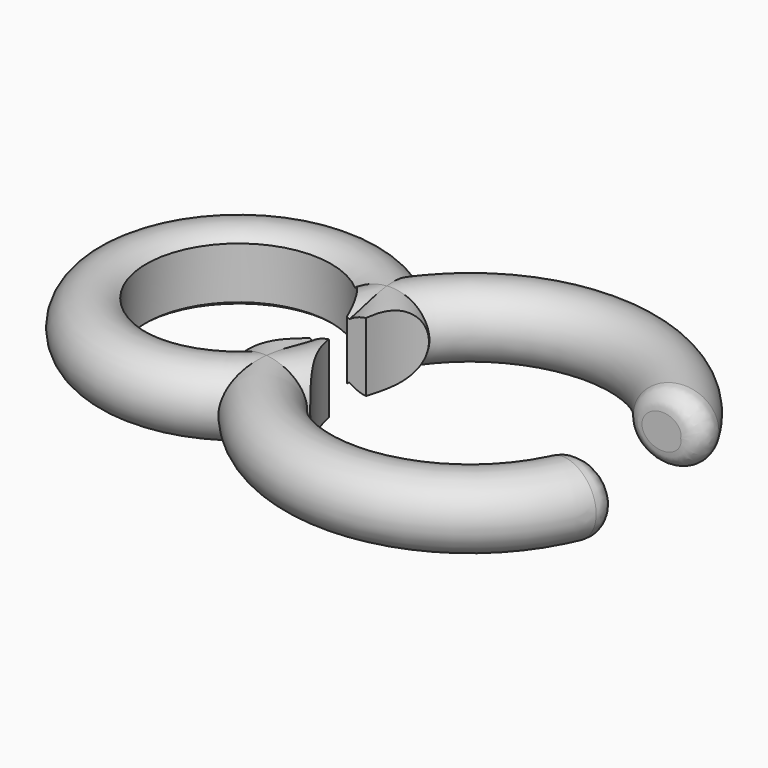
from build123d import *

# Parameters (mm, degrees)
BOX001_W          = 4
BOX001_H          = 2.5
BOX001_DEPTH      = 10
BOX_W             = 3
BOX_H             = 1
BOX_DEPTH         = 5
CYLINDER001_R     = 2.7
CYLINDER001_DEPTH = 10
CYLINDER_R        = 2
CYLINDER_DEPTH    = 10
TORUS_R           = 0.75
TORUS001_R        = 0.75
FILLET_R          = 0.4
FILLET001_R       = 0.4


with BuildPart() as cubo001:
    # Box001 → Box001 (new body)
    with BuildSketch(Plane(origin=(1, -1, -6), x_dir=(1, 0, 0), z_dir=(0, 0, 1))):
        with Locations((2, 1.25)):
            Rectangle(BOX001_W, BOX001_H)
    extrude(amount=BOX001_DEPTH)


with BuildPart() as cubo:
    # Box → Box (new body)
    with BuildSketch(Plane(origin=(-4, -0.5, -3), x_dir=(1, 0, 0), z_dir=(0, 0, 1))):
        with Locations((1.5, 0.5)):
            Rectangle(BOX_W, BOX_H)
    extrude(amount=BOX_DEPTH)


with BuildPart() as cilindro001:
    # Cylinder001 → Cylinder001 (new body)
    with BuildSketch(Plane.XY.offset(-9)):
        Circle(CYLINDER001_R)
    extrude(amount=CYLINDER001_DEPTH)


with BuildPart() as cilindro:
    # Cylinder → Cylinder (new body)
    with BuildSketch(Plane(origin=(-5, 0, -4), x_dir=(1, 0, 0), z_dir=(0, 0, 1))):
        Circle(CYLINDER_R)
    extrude(amount=CYLINDER_DEPTH)


with BuildPart() as toro:
    # Torus → Torus (revolve)
    with BuildSketch(Plane.XZ):
        with Locations((3.5, 0)):
            Circle(TORUS_R)
    revolve(axis=Axis((0, 0, 0), (0, 0, 1)))


with BuildPart() as fillet001:
    # Torus001 → Torus001 (revolve)
    with BuildSketch(Plane(origin=(-5, 0, 0), x_dir=(1, 0, 0), z_dir=(0, -1, 0))):
        with Locations((2.5, 0)):
            Circle(TORUS001_R)
    revolve(axis=Axis((-5, 0, 0), (0, 0, 1)))

    # Fusion: union Toro
    add(toro.part)

    # Cut: cut Cilindro
    add(cilindro.part, mode=Mode.SUBTRACT)

    # Cut001: cut Cilindro001
    add(cilindro001.part, mode=Mode.SUBTRACT)

    # Cut002: cut Cubo
    add(cubo.part, mode=Mode.SUBTRACT)

    # Cut003: cut Cubo001
    add(cubo001.part, mode=Mode.SUBTRACT)

    # Fillet
    fillet_edges = [fillet001.edges().sort_by_distance(p)[0] for p in [
        (2.561738, -1, 0),
    ]]
    fillet(fillet_edges, radius=FILLET_R)

    # Fillet001
    fillet001_edges = [fillet001.edges().sort_by_distance(p)[0] for p in [
        (2.304886, 1.5, 0),
    ]]
    fillet(fillet001_edges, radius=FILLET001_R)


solid = fillet001.part
